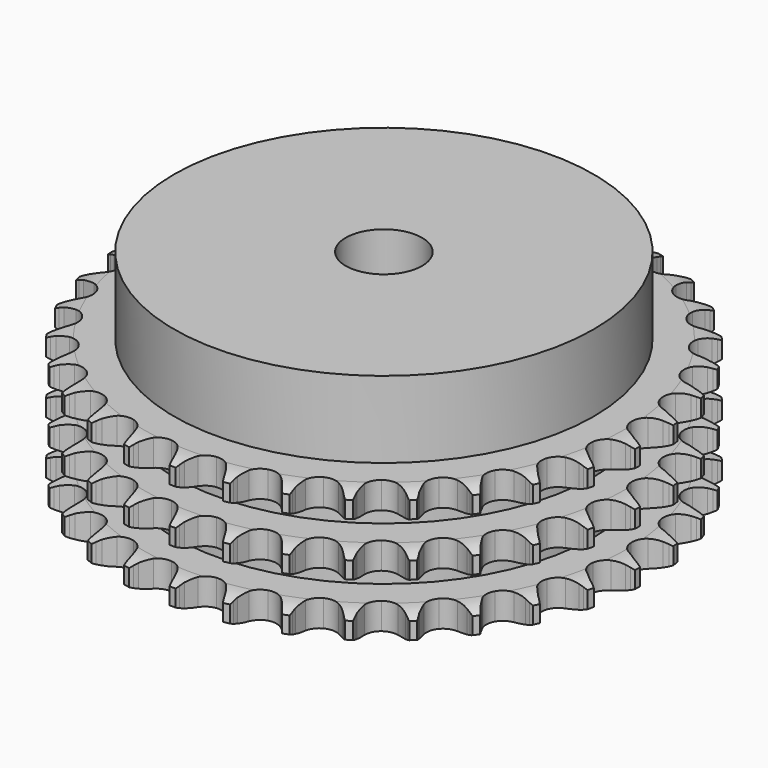
from build123d import *

# Parameters (mm, degrees)
PAD_DEPTH         = 34.9
SKETCH001_R       = 55
PAD001_DEPTH      = 55
SKETCH002_R       = 10
POCKET_DEPTH      = 0.001
POCKET_DEPTH_BACK = 55.001


with BuildPart() as part:
    # Sprocket → Pad (new body)
    with BuildSketch(Plane.XY):
        with BuildLine():
            ThreePointArc((-6.71181, 70.289252), (-5.944232, 69.253929), (-5.382059, 68.094174))
            Line((-5.382059, 68.094174), (-4.966904, 66.984686))
            ThreePointArc((-4.966904, 66.984686), (-4.30897, 65.54703), (-3.453835, 64.217188))
            ThreePointArc((-3.453835, 64.217188), (-1.931189, 62.944673), (0, 62.488321))
            ThreePointArc((0, 62.488321), (1.931189, 62.944673), (3.453835, 64.217188))
            ThreePointArc((3.453835, 64.217188), (4.30897, 65.54703), (4.966904, 66.984686))
            Line((4.966904, 66.984686), (5.382059, 68.094174))
            ThreePointArc((5.382059, 68.094174), (5.944232, 69.253929), (6.71181, 70.289252))
            ThreePointArc((6.71181, 70.289252), (7.26958, 69.127373), (7.602109, 67.882185))
            Line((7.602109, 67.882185), (7.799789, 66.714178))
            ThreePointArc((7.799789, 66.714178), (8.173756, 65.177987), (8.761763, 63.710342))
            ThreePointArc((8.761763, 63.710342), (10.016068, 62.172661), (11.825993, 61.359076))
            ThreePointArc((11.825993, 61.359076), (13.808647, 61.441701), (15.544603, 62.403057))
            Line((15.544603, 62.403057), (17.554081, 64.834193))
            ThreePointArc((17.554081, 64.834193), (17.849425, 65.347856), (18.171705, 65.845062))
            ThreePointArc((18.171705, 65.845062), (18.943204, 66.877467), (19.892847, 67.748815))
            ThreePointArc((19.892847, 67.748815), (20.220651, 66.502374), (20.311517, 65.216757))
            Line((20.311517, 65.216757), (20.284578, 64.032446))
            ThreePointArc((20.284578, 64.032446), (20.361061, 62.453243), (20.660688, 60.900839))
            ThreePointArc((20.660688, 60.900839), (21.601318, 59.153566), (23.224563, 58.012154))
            ThreePointArc((23.224563, 58.012154), (25.187025, 57.718066), (27.073547, 58.333517))
            Line((27.073547, 58.333517), (29.506807, 60.340423))
            ThreePointArc((29.506807, 60.340423), (29.894026, 60.788909), (30.304579, 61.216138))
            ThreePointArc((30.304579, 61.216138), (31.257519, 62.083879), (32.354905, 62.75976))
            ThreePointArc((32.354905, 62.75976), (32.440895, 61.473807), (32.286814, 60.194225))
            Line((32.286814, 60.194225), (32.03623, 59.036415))
            ThreePointArc((32.03623, 59.036415), (31.812464, 57.471275), (31.812882, 55.89022))
            ThreePointArc((31.812882, 55.89022), (32.40584, 53.996508), (33.783737, 52.568521))
            ThreePointArc((33.783737, 52.568521), (35.655079, 51.908349), (37.623984, 52.155652))
            Line((37.623984, 52.155652), (40.393081, 53.665793))
            ThreePointArc((40.393081, 53.665793), (40.858179, 54.032893), (41.342166, 54.374704))
            ThreePointArc((41.342166, 54.374704), (42.442107, 55.046418), (43.647572, 55.502403))
            ThreePointArc((43.647572, 55.502403), (43.48864, 54.223415), (43.095181, 52.996117))
            Line((43.095181, 52.996117), (42.630008, 51.906654))
            ThreePointArc((42.630008, 51.906654), (42.114081, 50.412146), (41.815275, 48.859584))
            ThreePointArc((41.815275, 48.859584), (42.039131, 46.887875), (43.121879, 45.224925))
            ThreePointArc((43.121879, 45.224925), (44.834465, 44.22253), (46.814592, 44.092746))
            Line((46.814592, 44.092746), (49.819444, 45.051541))
            ThreePointArc((49.819444, 45.051541), (50.34561, 45.323987), (50.88554, 45.568025))
            ThreePointArc((50.88554, 45.568025), (52.092726, 46.019436), (53.362702, 46.239045))
            ThreePointArc((53.362702, 46.239045), (52.964592, 45.013248), (52.345976, 43.882592))
            Line((52.345976, 43.882592), (51.683027, 42.900851))
            ThreePointArc((51.683027, 42.900851), (50.893586, 41.53099), (50.306356, 40.063035))
            ThreePointArc((50.306356, 40.063035), (50.153018, 38.084592), (50.901484, 36.246783))
            ThreePointArc((50.901484, 36.246783), (52.393416, 34.938393), (54.313198, 34.436212))
            Line((54.313198, 34.436212), (57.445202, 34.809009))
            ThreePointArc((57.445202, 34.809009), (58.013421, 34.976954), (58.589777, 35.1144))
            ThreePointArc((58.589777, 35.1144), (59.860578, 35.329191), (61.149166, 35.304487))
            ThreePointArc((61.149166, 35.304487), (60.526266, 34.176185), (59.704851, 33.183035))
            Line((59.704851, 33.183035), (58.868087, 32.344499))
            ThreePointArc((58.868087, 32.344499), (57.833665, 31.148797), (56.979234, 29.818503))
            ThreePointArc((56.979234, 29.818503), (56.454244, 27.904833), (56.841376, 25.958587))
            ThreePointArc((56.841376, 25.958587), (58.058733, 24.391491), (59.848784, 23.535065))
            Line((59.848784, 23.535065), (62.99474, 23.308389))
            ThreePointArc((62.99474, 23.308389), (63.584475, 23.365763), (64.176427, 23.391649))
            ThreePointArc((64.176427, 23.391649), (65.464913, 23.362058), (66.725539, 23.093934))
            ThreePointArc((66.725539, 23.093934), (65.900363, 22.103906), (64.905837, 21.284157))
            Line((64.905837, 21.284157), (63.925501, 20.619133))
            ThreePointArc((63.925501, 20.619133), (62.683484, 19.640804), (61.592733, 18.496253))
            ThreePointArc((61.592733, 18.496253), (60.715067, 16.71652), (60.726874, 14.73218))
            ThreePointArc((60.726874, 14.73218), (61.625657, 12.963018), (63.221278, 11.783299))
            Line((63.221278, 11.783299), (66.267485, 10.965343))
            ThreePointArc((66.267485, 10.965343), (66.85742, 10.910072), (67.443574, 10.823463))
            ThreePointArc((67.443574, 10.823463), (68.703175, 10.550559), (69.890277, 10.048705))
            ThreePointArc((69.890277, 10.048705), (68.89265, 9.232734), (67.760958, 8.616014))
            Line((67.760958, 8.616014), (66.67248, 8.148538))
            ThreePointArc((66.67248, 8.148538), (65.267758, 7.422942), (63.980111, 6.5055))
            ThreePointArc((63.980111, 6.5055), (62.781489, 4.924029), (62.417543, 2.973314))
            ThreePointArc((62.417543, 2.973314), (62.965268, 1.066027), (64.308792, -0.394346))
            Line((64.308792, -0.394346), (67.14515, -1.774019))
            ThreePointArc((67.14515, -1.774019), (67.713964, -1.939937), (68.273135, -2.135912))
            ThreePointArc((68.273135, -2.135912), (69.458325, -2.642264), (70.528999, -3.35971))
            ThreePointArc((70.528999, -3.35971), (69.394976, -3.972133), (68.16702, -4.363534))
            Line((68.16702, -4.363534), (67.009743, -4.616567))
            ThreePointArc((67.009743, -4.616567), (65.493086, -5.063204), (64.055081, -5.720379))
            ThreePointArc((64.055081, -5.720379), (62.578824, -7.046429), (61.85228, -8.893015))
            ThreePointArc((61.85228, -8.893015), (62.02915, -10.869493), (63.072017, -12.557739))
            Line((63.072017, -12.557739), (65.596014, -14.449263))
            ThreePointArc((65.596014, -14.449263), (66.123149, -14.719832), (66.635127, -15.018089))
            ThreePointArc((66.635127, -15.018089), (67.703071, -15.73959), (68.618618, -16.646697))
            ThreePointArc((68.618618, -16.646697), (67.389187, -17.033437), (66.109349, -17.185373))
            Line((66.109349, -17.185373), (64.925098, -17.214816))
            ThreePointArc((64.925098, -17.214816), (63.351323, -17.366354), (61.814934, -17.739508))
            ThreePointArc((61.814934, -17.739508), (60.114398, -18.762211), (59.051515, -20.437928))
            ThreePointArc((59.051515, -20.437928), (58.851138, -22.412161), (59.555656, -24.267262))
            Line((59.555656, -24.267262), (61.676068, -26.602273))
            ThreePointArc((61.676068, -26.602273), (62.142471, -26.967714), (62.588751, -27.357473))
            ThreePointArc((62.588751, -27.357473), (63.500851, -28.268045), (64.228182, -29.332028))
            ThreePointArc((64.228182, -29.332028), (62.947778, -29.479109), (61.662314, -29.386087))
            Line((61.662314, -29.386087), (60.493892, -29.190878))
            ThreePointArc((60.493892, -29.190878), (58.919878, -29.041838), (57.340634, -29.117485))
            ThreePointArc((57.340634, -29.117485), (55.47728, -29.799878), (54.116474, -31.244161))
            ThreePointArc((54.116474, -31.244161), (53.546092, -33.144795), (53.886798, -35.099703))
            Line((53.886798, -35.099703), (55.526988, -37.793808))
            ThreePointArc((55.526988, -37.793808), (55.915802, -38.240912), (56.280255, -38.708087))
            ThreePointArc((56.280255, -38.708087), (57.003546, -39.77482), (57.516373, -40.957224))
            ThreePointArc((57.516373, -40.957224), (56.231271, -40.859328), (54.986642, -40.524712))
            Line((54.986642, -40.524712), (53.876278, -40.111905))
            ThreePointArc((53.876278, -40.111905), (52.358915, -39.667674), (50.793893, -39.44308))
            ThreePointArc((50.793893, -39.44308), (48.83507, -39.7605), (47.225522, -40.921148))
            ThreePointArc((47.225522, -40.921148), (46.30575, -42.67949), (46.270331, -44.663549))
            Line((46.270331, -44.663549), (47.371017, -47.619376))
            ThreePointArc((47.371017, -47.619376), (47.668191, -48.131984), (47.937644, -48.65969))
            ThreePointArc((47.937644, -48.65969), (48.445983, -49.844029), (48.725771, -51.102118))
            ThreePointArc((48.725771, -51.102118), (47.48242, -50.762785), (46.32361, -50.198668))
            Line((46.32361, -50.198668), (45.311436, -49.583183))
            ThreePointArc((45.311436, -49.583183), (43.905564, -48.859817), (42.411329, -48.3431))
            ThreePointArc((42.411329, -48.3431), (40.427832, -48.284074), (38.627717, -49.119138))
            ThreePointArc((38.627717, -49.119138), (37.391799, -50.671637), (36.981534, -52.613138))
            Line((36.981534, -52.613138), (37.502935, -55.723856))
            ThreePointArc((37.502935, -55.723856), (37.697726, -56.283441), (37.862441, -56.852604))
            ThreePointArc((37.862441, -56.852604), (38.137456, -58.111745), (38.174094, -59.400049))
            ThreePointArc((38.174094, -59.400049), (37.017431, -58.831542), (35.986321, -58.058313))
            Line((35.986321, -58.058313), (35.10892, -57.262396))
            ThreePointArc((35.10892, -57.262396), (33.865352, -56.286039), (32.49591, -55.495874))
            ThreePointArc((32.49591, -55.495874), (30.559427, -55.062535), (28.633806, -55.541835))
            ThreePointArc((28.633806, -55.541835), (27.12641, -56.832379), (26.356128, -58.661152))
            Line((26.356128, -58.661152), (26.279399, -61.814331))
            ThreePointArc((26.279399, -61.814331), (26.364768, -62.400667), (26.418792, -62.990718))
            ThreePointArc((26.418792, -62.990718), (26.450543, -64.279151), (26.242705, -65.551108))
            ThreePointArc((26.242705, -65.551108), (25.214535, -64.773974), (24.348394, -63.81958))
            Line((24.348394, -63.81958), (23.637477, -62.871997))
            ThreePointArc((23.637477, -62.871997), (22.601158, -61.677937), (21.406003, -60.642883))
            ThreePointArc((21.406003, -60.642883), (19.586526, -59.850893), (17.604995, -59.957105))
            ThreePointArc((17.604995, -59.957105), (15.880602, -60.93905), (14.778142, -62.588998))
            Line((14.778142, -62.588998), (14.106057, -65.670674))
            ThreePointArc((14.106057, -65.670674), (14.078919, -66.262571), (14.020298, -66.852183))
            ThreePointArc((14.020298, -66.852183), (13.807638, -68.123342), (13.362836, -69.332978))
            ThreePointArc((13.362836, -69.332978), (12.50032, -68.375306), (11.830451, -67.274241))
            Line((11.830451, -67.274241), (11.311713, -66.20924))
            ThreePointArc((11.311713, -66.20924), (10.520099, -64.840634), (9.542428, -63.598099))
            ThreePointArc((9.542428, -63.598099), (7.905716, -62.476084), (5.939893, -62.205369))
            ThreePointArc((5.939893, -62.205369), (4.060828, -62.843226), (2.666036, -64.254715))
            Line((2.666036, -64.254715), (1.422886, -67.153508))
            ThreePointArc((1.422886, -67.153508), (1.28422, -67.729573), (1.115074, -68.297435))
            ThreePointArc((1.115074, -68.297435), (0.665688, -69.505377), (0, -70.608975))
            ThreePointArc((0, -70.608975), (-0.665688, -69.505377), (-1.115074, -68.297435))
            Line((-1.115074, -68.297435), (-1.422886, -67.153508))
            ThreePointArc((-1.422886, -67.153508), (-1.941183, -65.659821), (-2.666036, -64.254715))
            ThreePointArc((-2.666036, -64.254715), (-4.060828, -62.843226), (-5.939893, -62.205369))
            ThreePointArc((-5.939893, -62.205369), (-7.905716, -62.476084), (-9.542428, -63.598099))
            Line((-9.542428, -63.598099), (-11.311713, -66.20924))
            ThreePointArc((-11.311713, -66.20924), (-11.556893, -66.748652), (-11.830451, -67.274241))
            ThreePointArc((-11.830451, -67.274241), (-12.50032, -68.375306), (-13.362836, -69.332978))
            ThreePointArc((-13.362836, -69.332978), (-13.807638, -68.123342), (-14.020298, -66.852183))
            Line((-14.020298, -66.852183), (-14.106057, -65.670674))
            ThreePointArc((-14.106057, -65.670674), (-14.332306, -64.105891), (-14.778142, -62.588998))
            ThreePointArc((-14.778142, -62.588998), (-15.880602, -60.93905), (-17.604995, -59.957105))
            ThreePointArc((-17.604995, -59.957105), (-19.586526, -59.850893), (-21.406003, -60.642883))
            Line((-21.406003, -60.642883), (-23.637477, -62.871997))
            ThreePointArc((-23.637477, -62.871997), (-23.980311, -63.35526), (-24.348394, -63.81958))
            ThreePointArc((-24.348394, -63.81958), (-25.214535, -64.773974), (-26.242705, -65.551108))
            ThreePointArc((-26.242705, -65.551108), (-26.450543, -64.279151), (-26.418792, -62.990718))
            Line((-26.418792, -62.990718), (-26.279399, -61.814331))
            ThreePointArc((-26.279399, -61.814331), (-26.205423, -60.235008), (-26.356128, -58.661152))
            ThreePointArc((-26.356128, -58.661152), (-27.12641, -56.832379), (-28.633806, -55.541835))
            ThreePointArc((-28.633806, -55.541835), (-30.559427, -55.062535), (-32.49591, -55.495874))
            Line((-32.49591, -55.495874), (-35.10892, -57.262396))
            ThreePointArc((-35.10892, -57.262396), (-35.537017, -57.672044), (-35.986321, -58.058313))
            ThreePointArc((-35.986321, -58.058313), (-37.017431, -58.831542), (-38.174094, -59.400049))
            ThreePointArc((-38.174094, -59.400049), (-38.137456, -58.111745), (-37.862441, -56.852604))
            Line((-37.862441, -56.852604), (-37.502935, -55.723856))
            ThreePointArc((-37.502935, -55.723856), (-37.131407, -54.187074), (-36.981534, -52.613138))
            ThreePointArc((-36.981534, -52.613138), (-37.391799, -50.671637), (-38.627717, -49.119138))
            ThreePointArc((-38.627717, -49.119138), (-40.427832, -48.284074), (-42.411329, -48.3431))
            Line((-42.411329, -48.3431), (-45.311436, -49.583183))
            ThreePointArc((-45.311436, -49.583183), (-45.809323, -49.904411), (-46.32361, -50.198668))
            ThreePointArc((-46.32361, -50.198668), (-47.48242, -50.762785), (-48.725771, -51.102118))
            ThreePointArc((-48.725771, -51.102118), (-48.445983, -49.844029), (-47.937644, -48.65969))
            Line((-47.937644, -48.65969), (-47.371017, -47.619376))
            ThreePointArc((-47.371017, -47.619376), (-46.715365, -46.180678), (-46.270331, -44.663549))
            ThreePointArc((-46.270331, -44.663549), (-46.30575, -42.67949), (-47.225522, -40.921148))
            ThreePointArc((-47.225522, -40.921148), (-48.83507, -39.7605), (-50.793893, -39.44308))
            Line((-50.793893, -39.44308), (-53.876278, -40.111905))
            ThreePointArc((-53.876278, -40.111905), (-54.425961, -40.333102), (-54.986642, -40.524712))
            ThreePointArc((-54.986642, -40.524712), (-56.231271, -40.859328), (-57.516373, -40.957224))
            ThreePointArc((-57.516373, -40.957224), (-57.003546, -39.77482), (-56.280255, -38.708087))
            Line((-56.280255, -38.708087), (-55.526988, -37.793808))
            ThreePointArc((-55.526988, -37.793808), (-54.610908, -36.505192), (-53.886798, -35.099703))
            ThreePointArc((-53.886798, -35.099703), (-53.546092, -33.144795), (-54.116474, -31.244161))
            ThreePointArc((-54.116474, -31.244161), (-55.47728, -29.799878), (-57.340634, -29.117485))
            Line((-57.340634, -29.117485), (-60.493892, -29.190878))
            ThreePointArc((-60.493892, -29.190878), (-61.075502, -29.304049), (-61.662314, -29.386087))
            ThreePointArc((-61.662314, -29.386087), (-62.947778, -29.479109), (-64.228182, -29.332028))
            ThreePointArc((-64.228182, -29.332028), (-63.500851, -28.268045), (-62.588751, -27.357473))
            Line((-62.588751, -27.357473), (-61.676068, -26.602273))
            ThreePointArc((-61.676068, -26.602273), (-60.532671, -25.510313), (-59.555656, -24.267262))
            ThreePointArc((-59.555656, -24.267262), (-58.851138, -22.412161), (-59.051515, -20.437928))
            ThreePointArc((-59.051515, -20.437928), (-60.114398, -18.762211), (-61.814934, -17.739508))
            Line((-61.814934, -17.739508), (-64.925098, -17.214816))
            ThreePointArc((-64.925098, -17.214816), (-65.517616, -17.215872), (-66.109349, -17.185373))
            ThreePointArc((-66.109349, -17.185373), (-67.389187, -17.033437), (-68.618618, -16.646697))
            ThreePointArc((-68.618618, -16.646697), (-67.703071, -15.73959), (-66.635127, -15.018089))
            Line((-66.635127, -15.018089), (-65.596014, -14.449263))
            ThreePointArc((-65.596014, -14.449263), (-64.266625, -13.593425), (-63.072017, -12.557739))
            ThreePointArc((-63.072017, -12.557739), (-62.02915, -10.869493), (-61.85228, -8.893015))
            ThreePointArc((-61.85228, -8.893015), (-62.578824, -7.046429), (-64.055081, -5.720379))
            Line((-64.055081, -5.720379), (-67.009743, -4.616567))
            ThreePointArc((-67.009743, -4.616567), (-67.591753, -4.505468), (-68.16702, -4.363534))
            ThreePointArc((-68.16702, -4.363534), (-69.394976, -3.972133), (-70.528999, -3.35971))
            ThreePointArc((-70.528999, -3.35971), (-69.458325, -2.642264), (-68.273135, -2.135912))
            Line((-68.273135, -2.135912), (-67.14515, -1.774019))
            ThreePointArc((-67.14515, -1.774019), (-65.677816, -1.185236), (-64.308792, -0.394346))
            ThreePointArc((-64.308792, -0.394346), (-62.965268, 1.066027), (-62.417543, 2.973314))
            ThreePointArc((-62.417543, 2.973314), (-62.781489, 4.924029), (-63.980111, 6.5055))
            Line((-63.980111, 6.5055), (-66.67248, 8.148538))
            ThreePointArc((-66.67248, 8.148538), (-67.222947, 8.367775), (-67.760958, 8.616014))
            ThreePointArc((-67.760958, 8.616014), (-68.89265, 9.232734), (-69.890277, 10.048705))
            ThreePointArc((-69.890277, 10.048705), (-68.703175, 10.550559), (-67.443574, 10.823463))
            Line((-67.443574, 10.823463), (-66.267485, 10.965343))
            ThreePointArc((-66.267485, 10.965343), (-64.71524, 11.265791), (-63.221278, 11.783299))
            ThreePointArc((-63.221278, 11.783299), (-61.625657, 12.963018), (-60.726874, 14.73218))
            ThreePointArc((-60.726874, 14.73218), (-60.715067, 16.71652), (-61.592733, 18.496253))
            Line((-61.592733, 18.496253), (-63.925501, 20.619133))
            ThreePointArc((-63.925501, 20.619133), (-64.424529, 20.938584), (-64.905837, 21.284157))
            ThreePointArc((-64.905837, 21.284157), (-65.900363, 22.103906), (-66.725539, 23.093934))
            ThreePointArc((-66.725539, 23.093934), (-65.464913, 23.362058), (-64.176427, 23.391649))
            Line((-64.176427, 23.391649), (-62.99474, 23.308389))
            ThreePointArc((-62.99474, 23.308389), (-61.413686, 23.309644), (-59.848784, 23.535065))
            ThreePointArc((-59.848784, 23.535065), (-58.058733, 24.391491), (-56.841376, 25.958587))
            ThreePointArc((-56.841376, 25.958587), (-56.454244, 27.904833), (-56.979234, 29.818503))
            Line((-56.979234, 29.818503), (-58.868087, 32.344499))
            ThreePointArc((-58.868087, 32.344499), (-59.297641, 32.752619), (-59.704851, 33.183035))
            ThreePointArc((-59.704851, 33.183035), (-60.526266, 34.176185), (-61.149166, 35.304487))
            ThreePointArc((-61.149166, 35.304487), (-59.860578, 35.329191), (-58.589777, 35.1144))
            Line((-58.589777, 35.1144), (-57.445202, 34.809009))
            ThreePointArc((-57.445202, 34.809009), (-55.892482, 34.511024), (-54.313198, 34.436212))
            ThreePointArc((-54.313198, 34.436212), (-52.393416, 34.938393), (-50.901484, 36.246783))
            ThreePointArc((-50.901484, 36.246783), (-50.153018, 38.084592), (-50.306356, 40.063035))
            Line((-50.306356, 40.063035), (-51.683027, 42.900851))
            ThreePointArc((-51.683027, 42.900851), (-52.027581, 43.382889), (-52.345976, 43.882592))
            ThreePointArc((-52.345976, 43.882592), (-52.964592, 45.013248), (-53.362702, 46.239045))
            ThreePointArc((-53.362702, 46.239045), (-52.092726, 46.019436), (-50.88554, 45.568025))
            Line((-50.88554, 45.568025), (-49.819444, 45.051541))
            ThreePointArc((-49.819444, 45.051541), (-48.351177, 44.465087), (-46.814592, 44.092746))
            ThreePointArc((-46.814592, 44.092746), (-44.834465, 44.22253), (-43.121879, 45.224925))
            ThreePointArc((-43.121879, 45.224925), (-42.039131, 46.887875), (-41.815275, 48.859584))
            Line((-41.815275, 48.859584), (-42.630008, 51.906654))
            ThreePointArc((-42.630008, 51.906654), (-42.877109, 52.445188), (-43.095181, 52.996117))
            ThreePointArc((-43.095181, 52.996117), (-43.48864, 54.223415), (-43.647572, 55.502403))
            ThreePointArc((-43.647572, 55.502403), (-42.442107, 55.046418), (-41.342166, 54.374704))
            Line((-41.342166, 54.374704), (-40.393081, 53.665793))
            ThreePointArc((-40.393081, 53.665793), (-39.062336, 52.812065), (-37.623984, 52.155652))
            ThreePointArc((-37.623984, 52.155652), (-35.655079, 51.908349), (-33.783737, 52.568521))
            ThreePointArc((-33.783737, 52.568521), (-32.40584, 53.996508), (-31.812882, 55.89022))
            Line((-31.812882, 55.89022), (-32.03623, 59.036415))
            ThreePointArc((-32.03623, 59.036415), (-32.176947, 59.611982), (-32.286814, 60.194225))
            ThreePointArc((-32.286814, 60.194225), (-32.440895, 61.473807), (-32.354905, 62.75976))
            ThreePointArc((-32.354905, 62.75976), (-31.257519, 62.083879), (-30.304579, 61.216138))
            Line((-30.304579, 61.216138), (-29.506807, 60.340423))
            ThreePointArc((-29.506807, 60.340423), (-28.361679, 59.250278), (-27.073547, 58.333517))
            ThreePointArc((-27.073547, 58.333517), (-25.187025, 57.718066), (-23.224563, 58.012154))
            ThreePointArc((-23.224563, 58.012154), (-21.601318, 59.153566), (-20.660688, 60.900839))
            Line((-20.660688, 60.900839), (-20.284578, 64.032446))
            ThreePointArc((-20.284578, 64.032446), (-20.313826, 64.624243), (-20.311517, 65.216757))
            ThreePointArc((-20.311517, 65.216757), (-20.220651, 66.502374), (-19.892847, 67.748815))
            ThreePointArc((-19.892847, 67.748815), (-18.943204, 66.877467), (-18.171705, 65.845062))
            Line((-18.171705, 65.845062), (-17.554081, 64.834193))
            ThreePointArc((-17.554081, 64.834193), (-16.635958, 63.547032), (-15.544603, 62.403057))
            ThreePointArc((-15.544603, 62.403057), (-13.808647, 61.441701), (-11.825993, 61.359076))
            ThreePointArc((-11.825993, 61.359076), (-10.016068, 62.172661), (-8.761763, 63.710342))
            Line((-8.761763, 63.710342), (-7.799789, 66.714178))
            ThreePointArc((-7.799789, 66.714178), (-7.71651, 67.300815), (-7.602109, 67.882185))
            ThreePointArc((-7.602109, 67.882185), (-7.26958, 69.127373), (-6.71181, 70.289252))
        make_face()
    extrude(amount=PAD_DEPTH)

    # Sketch → Groove (revolve, cut)
    with BuildSketch(Plane.XZ):
        with BuildLine():
            ThreePointArc((63.533431, 0), (66.44032, 0.329167), (69.2, 1.3))
            Line((69.2, 1.3), (69.2, 5.7))
            ThreePointArc((69.2, 5.7), (66.44032, 6.670833), (63.533431, 7))
            Line((55, 7), (63.533431, 7))
            Line((55, 7), (55, 13.95))
            Line((55, 13.95), (63.533431, 13.95))
            ThreePointArc((63.533431, 13.95), (66.44032, 14.279167), (69.2, 15.25))
            Line((69.2, 19.65), (69.2, 15.25))
            ThreePointArc((69.2, 19.65), (66.44032, 20.620833), (63.533431, 20.95))
            Line((55, 20.95), (63.533431, 20.95))
            Line((55, 27.9), (55, 20.95))
            Line((63.533431, 27.9), (55, 27.9))
            ThreePointArc((63.533431, 27.9), (66.44032, 28.229167), (69.2, 29.2))
            Line((69.2, 29.2), (69.2, 33.6))
            ThreePointArc((69.2, 33.6), (66.44032, 34.570833), (63.533431, 34.9))
            Line((63.533431, 34.9), (79.2, 34.9))
            Line((79.2, 34.9), (79.2, 0))
            Line((63.533431, 0), (79.2, 0))
        make_face()
    revolve(axis=Axis((0, 0, 0), (0, 0, 1)), mode=Mode.SUBTRACT)

    # Sketch001 → Pad001 (join)
    with BuildSketch(Plane.XY):
        Circle(SKETCH001_R)
    extrude(amount=PAD001_DEPTH)

    # Sketch002 → Pocket (cut, two sides)
    with BuildSketch(Plane.XY) as pocket_sk:
        Circle(SKETCH002_R)
    extrude(amount=-POCKET_DEPTH, mode=Mode.SUBTRACT)
    extrude(pocket_sk.sketch, amount=POCKET_DEPTH_BACK, mode=Mode.SUBTRACT)


solid = part.part
